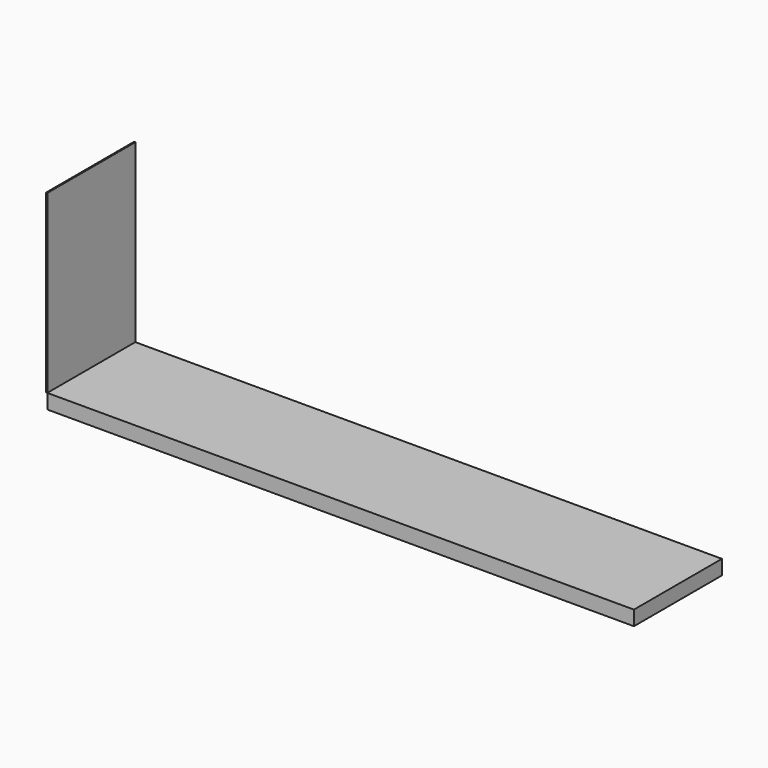
from build123d import *

# Parameters (mm, degrees)
F0_W     = 12192
F0_H     = 2286
F1_DEPTH = 304.8
F2_W     = 2286
F2_H     = 3657.6
F3_DEPTH = 25.4


with BuildPart() as f1:
    # F0 (on Top) → F1 (new body)
    with BuildSketch(Plane.XY):
        with Locations((6096, 1143)):
            Rectangle(F0_W, F0_H)
    extrude(amount=-F1_DEPTH)


with BuildPart() as f3:
    # F2 (on face) → F3 (new body)
    with BuildSketch(Plane(origin=(0, 0, 0), x_dir=(0, -1, 0), z_dir=(-1, 0, 0))):
        with Locations((-1143, 1828.8)):
            Rectangle(F2_W, F2_H)
    extrude(amount=F3_DEPTH)


solid = Compound([f1.part, f3.part])
